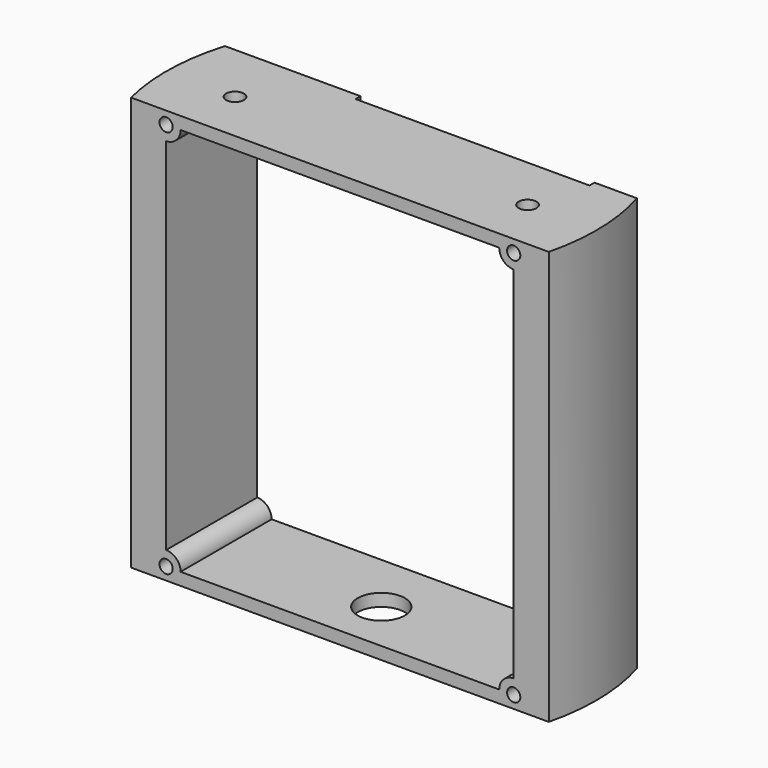
from build123d import *

# Parameters (mm, degrees)
PAD005_DEPTH    = 100
SKETCH007_R     = 1.6
POCKET001_DEPTH = 27.501
SKETCH008_R     = 2.15
POCKET002_DEPTH = 50
SKETCH014_R     = 5
SKETCH014_R_2   = 2.15
PAD010_DEPTH    = 2.5
SKETCH019_W     = 56.540354
SKETCH019_H     = 5.490008
POCKET_DEPTH    = 1.5
SKETCH020_R     = 5.7
POCKET004_DEPTH = 10


with BuildPart() as part:
    # Sketch006 → Pad005 (new body)
    with BuildSketch(Plane.XY):
        with BuildLine():
            Line((-49.789557, 15), (49.789557, 15))
            ThreePointArc((50.475241, -12.5), (51.983843, 1.296164), (49.789557, 15))
            Line((-50.475241, -12.5), (50.475241, -12.5))
            ThreePointArc((-49.789557, 15), (-51.983843, 1.296164), (-50.475241, -12.5))
        make_face()
    extrude(amount=PAD005_DEPTH)

    # Sketch007 (on Face3 of Pad005) → Pocket001 (cut, through all)
    with BuildSketch(Plane.XZ.offset(12.5)):
        with Locations((-42, 97)):
            Circle(SKETCH007_R)
        with Locations((42, 97)):
            Circle(SKETCH007_R)
        with Locations((42, 3)):
            Circle(SKETCH007_R)
        with Locations((-42, 3)):
            Circle(SKETCH007_R)
        with BuildLine():
            ThreePointArc((-42, 93.5), (-39.525126, 94.525126), (-38.5, 97))
            Line((-38.5, 97), (38.5, 97))
            ThreePointArc((38.5, 97), (39.525126, 94.525126), (42, 93.5))
            Line((42, 93.5), (42, 6.5))
            ThreePointArc((42, 6.5), (39.525126, 5.474874), (38.5, 3))
            Line((38.5, 3), (-38.5, 3))
            ThreePointArc((-38.5, 3), (-39.525126, 5.474874), (-42, 6.5))
            Line((-42, 6.5), (-42, 93.5))
        make_face()
    extrude(amount=-POCKET001_DEPTH, mode=Mode.SUBTRACT)

    # Sketch008 (on Face4 of Pocket001) → Pocket002 (cut)
    with BuildSketch(Plane.XY.offset(100)):
        with Locations((-35.355339, 0)):
            Circle(SKETCH008_R)
        with Locations((35.355339, 0)):
            Circle(SKETCH008_R)
    extrude(amount=-POCKET002_DEPTH, mode=Mode.SUBTRACT)

    # Sketch014 (on Face10 of Pocket002) → Pad010 (join)
    with BuildSketch(Plane(origin=(0, 0, 97), x_dir=(1, 0, 0), z_dir=(0, 0, -1))):
        with Locations((-35.355339, 0)):
            Circle(SKETCH014_R)
        with Locations((-35.355339, 0)):
            Circle(SKETCH014_R_2, mode=Mode.SUBTRACT)
        with Locations((35.355339, 0)):
            Circle(SKETCH014_R)
        with Locations((35.355339, 0)):
            Circle(SKETCH014_R_2, mode=Mode.SUBTRACT)
    extrude(amount=PAD010_DEPTH)

    # Sketch019 (on Face1 of Pad010) → Pocket (cut)
    with BuildSketch(Plane(origin=(0, 15, 0), x_dir=(-1, 0, 0), z_dir=(0, 1, 0))):
        with Locations((-11.270177, 97.254996)):
            Rectangle(SKETCH019_W, SKETCH019_H)
    extrude(amount=-POCKET_DEPTH, mode=Mode.SUBTRACT)

    # Sketch020 (on Face2 of Pocket) → Pocket004 (cut)
    with BuildSketch(Plane(origin=(0, 0, 0), x_dir=(1, 0, 0), z_dir=(0, 0, -1))):
        Circle(SKETCH020_R)
    extrude(amount=-POCKET004_DEPTH, mode=Mode.SUBTRACT)


with BuildPart() as part_1:
    # Body006 placement: moved
    add(part.part.moved(Location((0, 0, -130.2))))


solid = part_1.part
